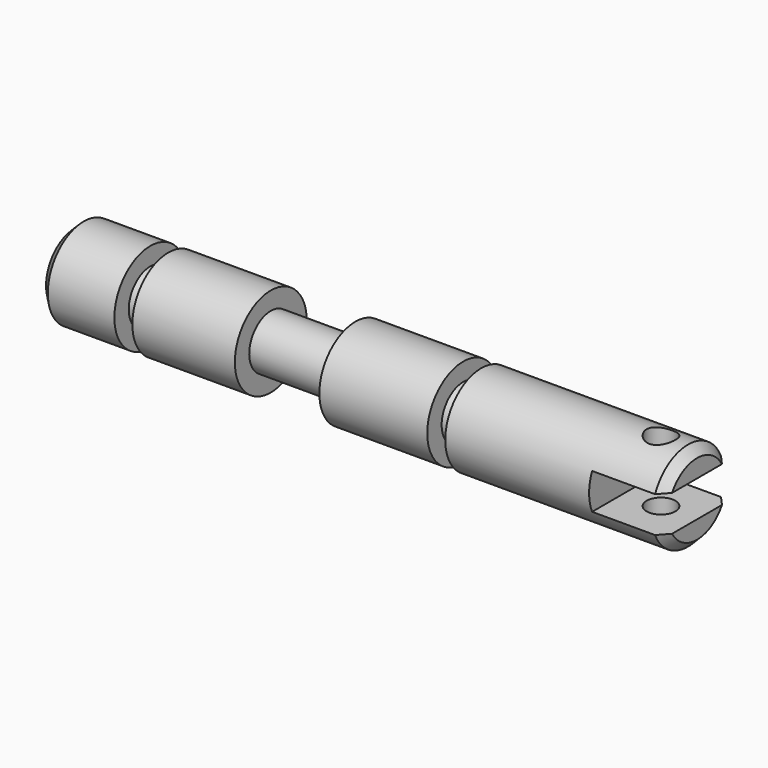
from build123d import *

# Parameters (mm, degrees)
F0_R     = 2.5
F1_DEPTH = 34.6
F2_W     = 1
F2_H     = 3
F2_W_2   = 4.7
F4_W     = 4
F4_H     = 2
F5_DEPTH = 12.5
F6_R     = 0.8
F7_DEPTH = 12.5
F8_SIZE  = 0.5


with BuildPart() as f1:
    # F0 (on Right) → F1 (new body)
    with BuildSketch(Plane.YZ):
        Circle(F0_R)
    extrude(amount=F1_DEPTH)

    # F2 (on Front) → F3 (revolve, cut)
    with BuildSketch(Plane.XZ):
        with Locations((4.7, 3)):
            Rectangle(F2_W, F2_H)
        with Locations((13.25, 3)):
            Rectangle(F2_W_2, F2_H)
        with Locations((22.1, 3)):
            Rectangle(F2_W, F2_H)
    revolve(axis=Axis((18.455703, 0, 0), (1, 0, 0)), mode=Mode.SUBTRACT)

    # F4 (on Front) → F5 (cut, symmetric)
    with BuildSketch(Plane.XZ):
        with Locations((32.6, 0)):
            Rectangle(F4_W, F4_H)
    extrude(amount=F5_DEPTH, both=True, mode=Mode.SUBTRACT)

    # F6 (on Top) → F7 (cut, symmetric)
    with BuildSketch(Plane.XY):
        with Locations((32.6, 0)):
            Circle(F6_R)
    extrude(amount=F7_DEPTH, both=True, mode=Mode.SUBTRACT)

    # F8
    f8_edges = [f1.edges().sort_by_distance(p)[0] for p in [
        (34.6, 0, -2.5),
        (34.6, 0, 2.5),
        (0, -2.5, 0),
    ]]
    chamfer(f8_edges, length=F8_SIZE)


solid = f1.part
